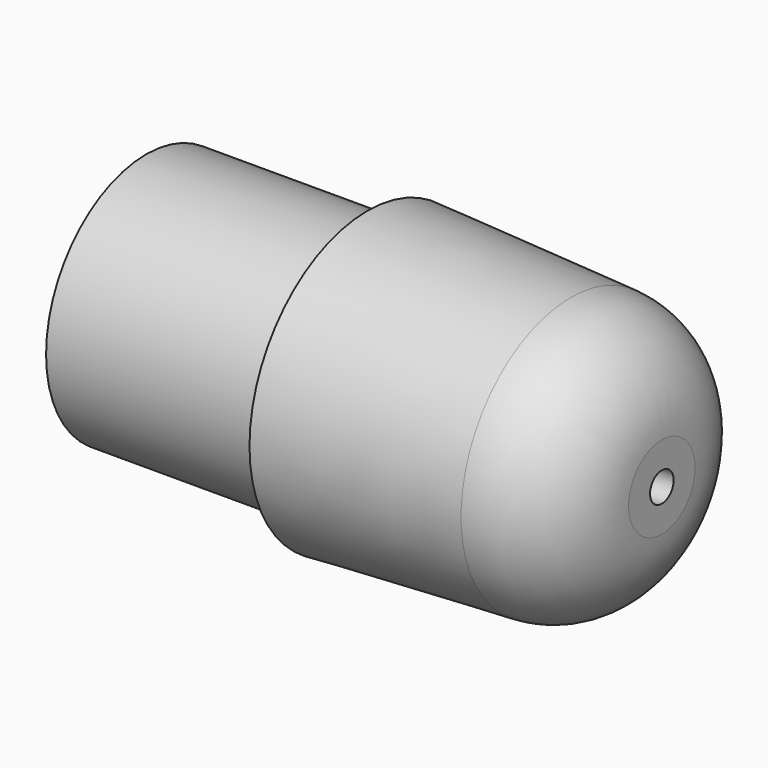
from build123d import *

# Parameters (mm, degrees)
F2_R    = 6.5
F3_SIZE = 2


with BuildPart() as f1:
    # F0 (on Top) → F1 (revolve)
    with BuildSketch(Plane.XY):
        Polygon((-74.077871, 8.5), (-74.077871, 3.673849), (-44.077871, 3.673849), (-41.102886, 1), (-39.102886, 1), (-39.102886, 9), (-59.077871, 10), (-59.077871, 8.5), align=None)
    revolve(axis=Axis((5.52991, 0, 0), (1, 0, 0)))

    # F2
    f2_edges = [f1.edges().sort_by_distance(p)[0] for p in [
        (-39.102886, -9, 0),
    ]]
    fillet(f2_edges, radius=F2_R)

    # F3
    f3_edges = [f1.edges().sort_by_distance(p)[0] for p in [
        (-74.077871, -3.673849, 0),
    ]]
    chamfer(f3_edges, length=F3_SIZE)


solid = f1.part
